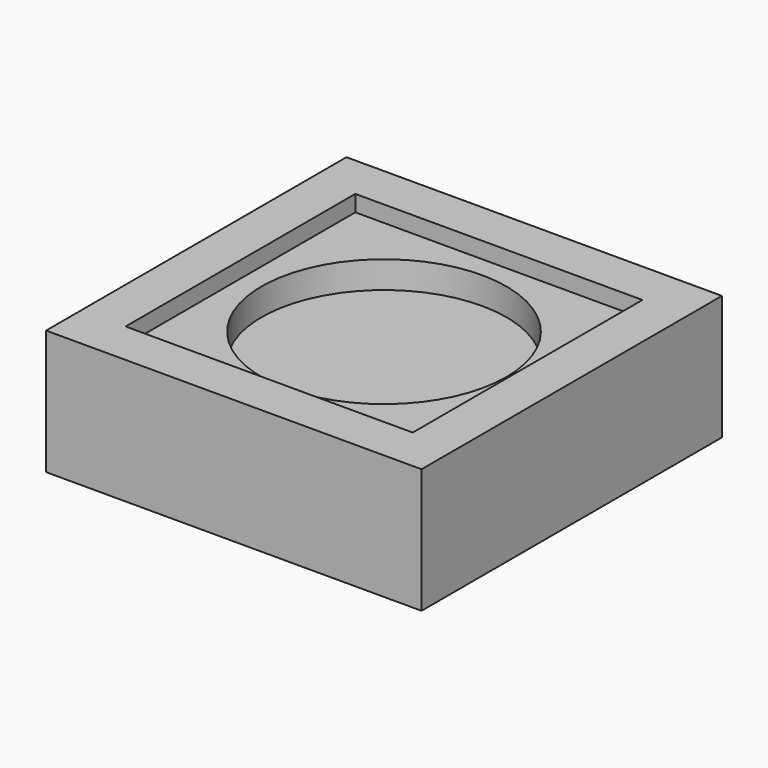
from build123d import *

# Parameters (mm, degrees)
F0_W     = 13.46
F0_H     = 13.46
F0_R     = 5.742874
F1_DEPTH = 5.08
F0_W_2   = 17.6
F0_H_2   = 17.6
F2_DEPTH = 5.842
F3_DEPTH = 3.81


with BuildPart() as f1:
    # F0 (on Top) → F1 (new body)
    with BuildSketch(Plane.XY):
        Rectangle(F0_W, F0_H)
        Circle(F0_R, mode=Mode.SUBTRACT)
    extrude(amount=F1_DEPTH)

    # F0 (on Top) → F2 (join)
    with BuildSketch(Plane.XY):
        Rectangle(F0_W_2, F0_H_2)
        Rectangle(F0_W, F0_H, mode=Mode.SUBTRACT)
    extrude(amount=F2_DEPTH)

    # F0 (on Top) → F3 (join)
    with BuildSketch(Plane.XY):
        Circle(F0_R)
    extrude(amount=F3_DEPTH)


solid = f1.part
